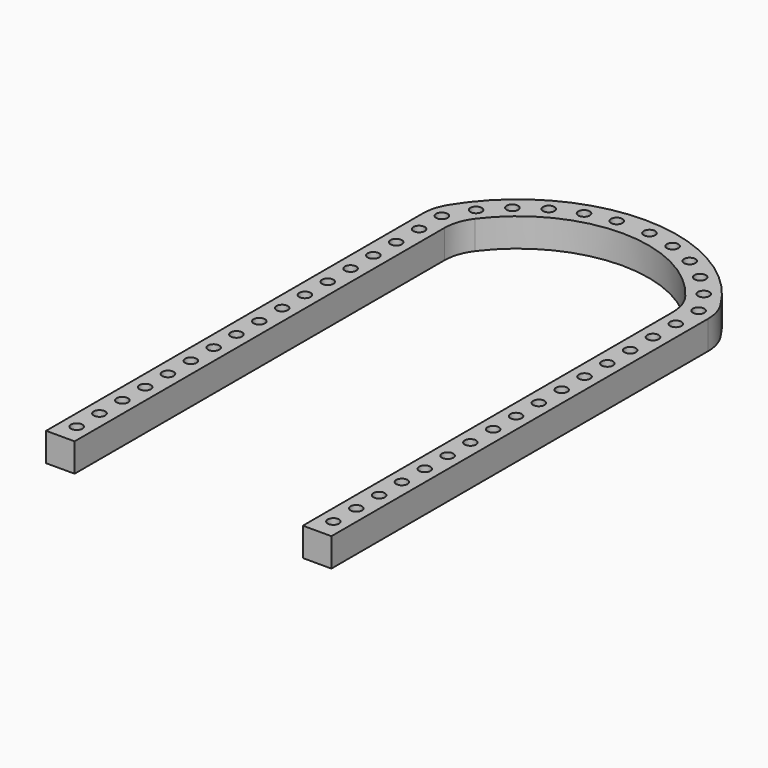
from build123d import *

# Parameters (mm, degrees)
F1_DEPTH = 5
F2_R     = 1
F3_DEPTH = 3
F4_R     = 8


with BuildPart() as f1:
    # F0 (on Top) → F1 (new body)
    with BuildSketch(Plane.XY):
        with BuildLine():
            ThreePointArc((25, 22.501486), (0, 37.925084), (-25, 22.501486))
            Line((-25, 22.501486), (-25, -62.074916))
            Line((-25, -62.074916), (-20, -62.074916))
            Line((-20, -62.074916), (-20, 21.255084))
            ThreePointArc((-20, 21.255084), (0, 32.925084), (20, 21.255084))
            Line((20, 21.255084), (20, -62.074916))
            Line((20, -62.074916), (25, -62.074916))
            Line((25, -62.074916), (25, 22.501486))
        make_face()
    extrude(amount=F1_DEPTH)

    # F2 (on face) → F3 (cut)
    with BuildSketch(Plane.XY.offset(5)):
        with Locations((-22.5, -13.498514)):
            Circle(F2_R)
        with Locations((-22.5, -8.498514)):
            Circle(F2_R)
        with Locations((-22.5, -3.498514)):
            Circle(F2_R)
        with Locations((-22.5, 1.501486)):
            Circle(F2_R)
        with Locations((-22.5, 6.501486)):
            Circle(F2_R)
        with Locations((-22.5, 11.501486)):
            Circle(F2_R)
        with Locations((-22.5, 16.501486)):
            Circle(F2_R)
        with Locations((-22.5, 21.501486)):
            Circle(F2_R)
        with Locations((-19.943857, 25.79871)):
            Circle(F2_R)
        with Locations((-16.464199, 29.38925)):
            Circle(F2_R)
        with Locations((-12.350201, 32.230908)):
            Circle(F2_R)
        with Locations((-7.760369, 34.214201)):
            Circle(F2_R)
        with Locations((-2.871543, 35.262714)):
            Circle(F2_R)
        with Locations((2.871543, 35.262714)):
            Circle(F2_R)
        with Locations((7.760369, 34.214201)):
            Circle(F2_R)
        with Locations((12.350201, 32.230908)):
            Circle(F2_R)
        with Locations((16.464199, 29.38925)):
            Circle(F2_R)
        with Locations((19.943857, 25.79871)):
            Circle(F2_R)
        with Locations((22.5, 21.501486)):
            Circle(F2_R)
        with Locations((22.5, 16.501486)):
            Circle(F2_R)
        with Locations((22.5, 11.501486)):
            Circle(F2_R)
        with Locations((22.5, 6.501486)):
            Circle(F2_R)
        with Locations((22.5, 1.501486)):
            Circle(F2_R)
        with Locations((22.5, -3.498514)):
            Circle(F2_R)
        with Locations((22.5, -8.498514)):
            Circle(F2_R)
        with Locations((22.5, -13.498514)):
            Circle(F2_R)
        with Locations((22.5, -18.498514)):
            Circle(F2_R)
        with Locations((22.5, -23.498514)):
            Circle(F2_R)
        with Locations((22.5, -28.498514)):
            Circle(F2_R)
        with Locations((22.5, -33.498514)):
            Circle(F2_R)
        with Locations((22.5, -48.498514)):
            Circle(F2_R)
        with Locations((22.5, -38.498514)):
            Circle(F2_R)
        with Locations((22.5, -43.498514)):
            Circle(F2_R)
        with Locations((22.5, -53.498514)):
            Circle(F2_R)
        with Locations((-22.5, -18.498514)):
            Circle(F2_R)
        with Locations((-22.5, -23.498514)):
            Circle(F2_R)
        with Locations((-22.5, -28.498514)):
            Circle(F2_R)
        with Locations((-22.5, -33.498514)):
            Circle(F2_R)
        with Locations((-22.5, -38.498514)):
            Circle(F2_R)
        with Locations((-22.5, -43.498514)):
            Circle(F2_R)
        with Locations((-22.5, -48.498514)):
            Circle(F2_R)
        with Locations((-22.5, -53.498514)):
            Circle(F2_R)
        with Locations((-22.5, -58.498514)):
            Circle(F2_R)
        with Locations((22.5, -58.498514)):
            Circle(F2_R)
    extrude(amount=-F3_DEPTH, mode=Mode.SUBTRACT)

    # F4
    f4_edges = [f1.edges().sort_by_distance(p)[0] for p in [
        (-25, 22.501486, 2.5),
        (-20, 21.255084, 2.5),
        (25, 22.501486, 2.5),
        (20, 21.255084, 2.5),
    ]]
    fillet(f4_edges, radius=F4_R)


solid = f1.part
